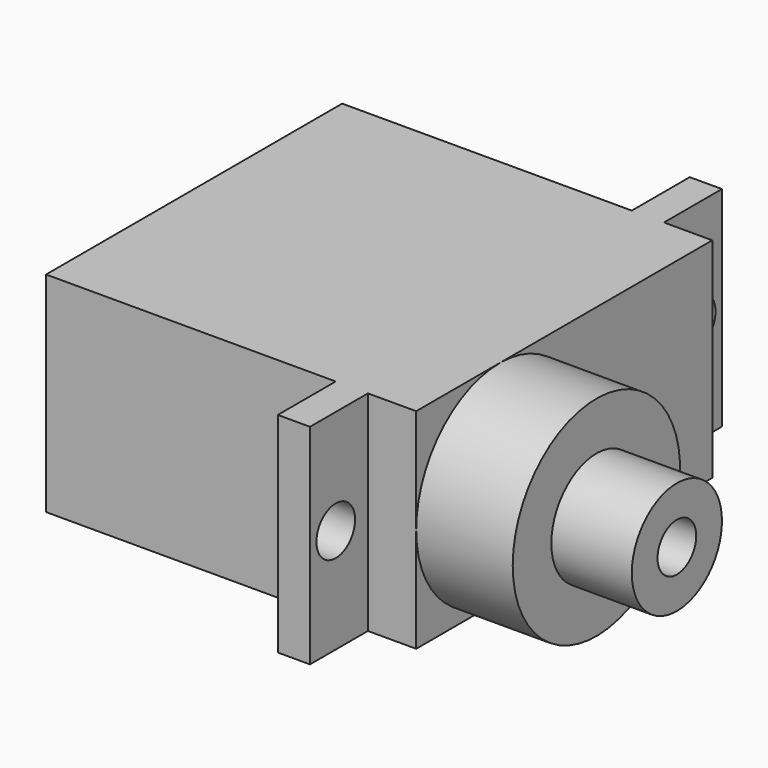
from build123d import *

# Parameters (mm, degrees)
CYLINDER010_R          = 1.5
CYLINDER010_DEPTH      = 10
CYLINDER013_R          = 1.5
CYLINDER013_DEPTH      = 5
CYLINDER014_R          = 1.5
CYLINDER014_DEPTH      = 10
CYLINDER011_R          = 3.5
CYLINDER011_DEPTH      = 5
BOX004_W               = 32
BOX004_H               = 13
BOX004_DEPTH           = 2
CYLINDER012_R          = 6.5
CYLINDER012_DEPTH      = 6
BOX005_W               = 23
BOX005_H               = 13
BOX005_DEPTH           = 23
CUT002_ROLL_ANGLE      = -90
CUT002_PLACEMENT_ANGLE = -90


with BuildPart() as zylinder010:
    # Cylinder010 → Cylinder010 (new body)
    with BuildSketch(Plane(origin=(25.5, 6.5, 13), x_dir=(1, 0, 0), z_dir=(0, 0, 1))):
        Circle(CYLINDER010_R)
    extrude(amount=CYLINDER010_DEPTH)


with BuildPart() as zylinder013:
    # Cylinder013 → Cylinder013 (new body)
    with BuildSketch(Plane(origin=(16.5, 6.5, 30), x_dir=(1, 0, 0), z_dir=(0, 0, 1))):
        Circle(CYLINDER013_R)
    extrude(amount=CYLINDER013_DEPTH)


with BuildPart() as fusion004:
    # Cylinder014 → Cylinder014 (new body)
    with BuildSketch(Plane(origin=(-2.5, 6.5, 13), x_dir=(1, 0, 0), z_dir=(0, 0, 1))):
        Circle(CYLINDER014_R)
    extrude(amount=CYLINDER014_DEPTH)

    # Fusion004: union Zylinder010, Zylinder013
    add(zylinder010.part)
    add(zylinder013.part)


with BuildPart() as zylinder011:
    # Cylinder011 → Cylinder011 (new body)
    with BuildSketch(Plane(origin=(16.5, 6.5, 29), x_dir=(1, 0, 0), z_dir=(0, 0, 1))):
        Circle(CYLINDER011_R)
    extrude(amount=CYLINDER011_DEPTH)


with BuildPart() as obj1:
    # Box004 → Box004 (new body)
    with BuildSketch(Plane(origin=(-4.5, 0, 18), x_dir=(1, 0, 0), z_dir=(0, 0, 1))):
        with Locations((16, 6.5)):
            Rectangle(BOX004_W, BOX004_H)
    extrude(amount=BOX004_DEPTH)


with BuildPart() as zylinder012:
    # Cylinder012 → Cylinder012 (new body)
    with BuildSketch(Plane(origin=(16.5, 6.5, 23), x_dir=(1, 0, 0), z_dir=(0, 0, 1))):
        Circle(CYLINDER012_R)
    extrude(amount=CYLINDER012_DEPTH)


with BuildPart() as servo3:
    # Box005 → Box005 (new body)
    with BuildSketch(Plane.XY):
        with Locations((11.5, 6.5)):
            Rectangle(BOX005_W, BOX005_H)
    extrude(amount=BOX005_DEPTH)

    # Fusion005: union Zylinder011, obj1, Zylinder012
    add(zylinder011.part)
    add(obj1.part)
    add(zylinder012.part)

    # Cut002: cut Fusion004
    add(fusion004.part, mode=Mode.SUBTRACT)


with BuildPart() as servo3_1:
    # Cut002 roll: moved
    add(servo3.part.rotate(Axis((0, 0, 0), (1, 0, 0)), CUT002_ROLL_ANGLE))


with BuildPart() as servo3_2:
    # Cut002 placement: moved
    add(servo3_1.part.moved(Location((-49.5, 16.5, 6))).rotate(Axis((-49.5, 16.5, 6), (0, 0, 1)), CUT002_PLACEMENT_ANGLE))


solid = servo3_2.part
